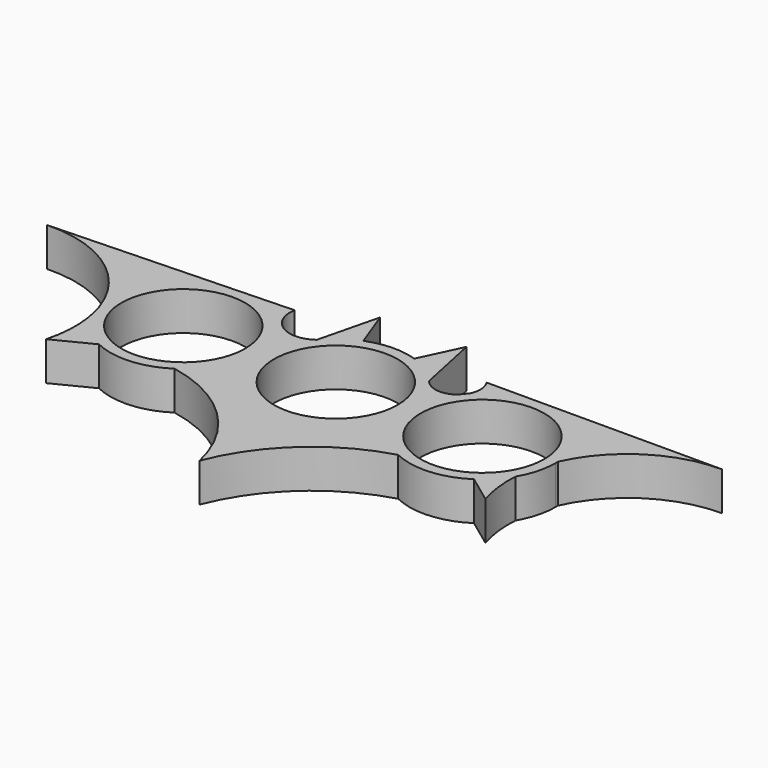
from build123d import *

# Parameters (mm, degrees)
F0_R     = 11.2
F1_DEPTH = 7


with BuildPart() as f1:
    # F0 (on Top) → F1 (new body)
    with BuildSketch(Plane.XY):
        with BuildLine():
            ThreePointArc((10.3281411328, 8.2200669548), (10.1972511679, 8.3717102549), (10.074000709, 8.5296254147))
            ThreePointArc((10.074000709, 8.5296254147), (7.4035330811, 10.9282980338), (4.1855750451, 12.5188242875))
            ThreePointArc((4.1855750451, 12.5188242875), (-0.3452490992, 13.1954841919), (-4.8344899154, 12.2828216326))
            ThreePointArc((-4.8344899154, 12.2828216326), (-7.7506695625, 10.6849015593), (-10.1749836281, 8.4089064788))
            ThreePointArc((-10.1749836281, 8.4089064788), (-4.468233214, -12.4207444199), (13.2, 0))
            ThreePointArc((13.2, 0), (12.4613695666, 4.3536500231), (10.3281411328, 8.2200669548))
        make_face()
        Circle(F0_R, mode=Mode.SUBTRACT)
        with BuildLine():
            ThreePointArc((10.3281411328, 8.2200669548), (10.2022450736, 8.3758101374), (10.074000709, 8.5296254147))
            ThreePointArc((10.074000709, 8.5296254147), (10.1972511679, 8.3717102549), (10.3281411328, 8.2200669548))
        make_face()
        with BuildLine():
            ThreePointArc((4.1855750451, 12.5188242875), (7.4035330811, 10.9282980338), (10.074000709, 8.5296254147))
            Line((10.074000709, 8.5296254147), (7.6865181327, 19.9412759393))
            Line((7.6865181327, 19.9412759393), (4.1855750451, 12.5188242875))
        make_face()
        with BuildLine():
            ThreePointArc((15.8676719554, 7.7748145738), (13.0097806042, 6.901037059), (10.3281411328, 8.2200669548))
            ThreePointArc((10.3281411328, 8.2200669548), (12.4613695666, 4.3536500231), (13.2, 0))
            ThreePointArc((13.2, 0), (-4.468233214, -12.4207444199), (-10.1749836281, 8.4089064788))
            ThreePointArc((-10.1749836281, 8.4089064788), (-15.9654138837, 8.2058267338), (-18.2521417737, 13.5294720531))
            Line((-18.2521417737, 13.5294720531), (-28.0488785159, 13.1921837517))
            ThreePointArc((-28.0488785159, 13.1921837517), (-18.4228655221, 9.4930316), (-14.3946892798, 0))
            ThreePointArc((-14.3946892798, 0), (-15.9784644263, -6.2692360104), (-20.3497377879, -11.034068963))
            ThreePointArc((-20.3497377879, -11.034068963), (-7.2156496997, -17.8748402529), (0, -30.8067705482))
            ThreePointArc((0, -30.8067705482), (8.1731824308, -18.8997973628), (20.7994515503, -11.8887881909))
            ThreePointArc((20.7994515503, -11.8887881909), (13.7315728101, -3.2112002777), (15.8676719554, 7.7748145738))
        make_face()
        with BuildLine():
            ThreePointArc((-10.1749836281, 8.4089064788), (-7.7506695625, 10.6849015593), (-4.8344899154, 12.2828216326))
            Line((-4.8344899154, 12.2828216326), (-7.4686547741, 19.3583834916))
            Line((-7.4686547741, 19.3583834916), (-10.1749836281, 8.4089064788))
        make_face()
        with BuildLine():
            ThreePointArc((16.9216233027, 9.0455875637), (16.4599264938, 8.356060205), (15.8676719554, 7.7748145738))
            ThreePointArc((15.8676719554, 7.7748145738), (13.7315728101, -3.2112002777), (20.7994515503, -11.8887881909))
            ThreePointArc((20.7994515503, -11.8887881909), (22.7350911295, -11.4067904706), (24.6973457089, -11.0482108434))
            ThreePointArc((24.6973457089, -11.0482108434), (19.2942274575, 8.5446451852), (37.735017377, 0))
            ThreePointArc((37.735017377, 0), (35.5470001475, -6.6501253029), (29.8378447798, -10.7019311877))
            ThreePointArc((29.8378447798, -10.7019311877), (31.8304630475, -10.7940985486), (33.8132592946, -11.0121385111))
            ThreePointArc((33.8132592946, -11.0121385111), (36.1041313286, -9.0924176202), (37.9043873019, -6.7065212675))
            ThreePointArc((37.9043873019, -6.7065212675), (38.4946332583, -2.9960688252), (39.7233684855, 0.5544321757))
            ThreePointArc((39.7233684855, 0.5544321757), (35.6651689499, 9.5331176566), (26.5196883397, 13.1999910993))
            ThreePointArc((26.5196883397, 13.1999910993), (21.2916554427, 12.1139240392), (16.9216233027, 9.0455875637))
        make_face()
        with BuildLine():
            ThreePointArc((16.9216233027, 9.0455875637), (16.3747607551, 8.4266948075), (15.8676719554, 7.7748145738))
            ThreePointArc((15.8676719554, 7.7748145738), (16.4599264938, 8.356060205), (16.9216233027, 9.0455875637))
        make_face()
        with BuildLine():
            ThreePointArc((16.7203744661, 13.1886111726), (17.3900464241, 11.1447410536), (16.9216233027, 9.0455875637))
            ThreePointArc((16.9216233027, 9.0455875637), (21.2916554427, 12.1139240392), (26.5196883397, 13.1999910993))
            Line((26.5196883397, 13.1999910993), (16.7203744661, 13.1886111726))
        make_face()
        with BuildLine():
            ThreePointArc((24.6973457089, -11.0482108434), (22.7350911295, -11.4067904706), (20.7994515503, -11.8887881909))
            ThreePointArc((20.7994515503, -11.8887881909), (27.4221988949, -13.1701521994), (33.8132592946, -11.0121385111))
            ThreePointArc((33.8132592946, -11.0121385111), (31.8304630475, -10.7940985486), (29.8378447798, -10.7019311877))
            ThreePointArc((29.8378447798, -10.7019311877), (27.2877774528, -11.1746745934), (24.6973457089, -11.0482108434))
        make_face()
        with BuildLine():
            Line((59.2723935843, 13.2380267605), (26.5196883397, 13.1999910993))
            ThreePointArc((26.5196883397, 13.1999910993), (35.6651689499, 9.5331176566), (39.7233684855, 0.5544321757))
            ThreePointArc((39.7233684855, 0.5544321757), (47.6248104741, 9.7831637012), (59.2723935843, 13.2380267605))
        make_face()
        with BuildLine():
            ThreePointArc((37.9043873019, -6.7065212675), (36.1041313286, -9.0924176202), (33.8132592946, -11.0121385111))
            Line((33.8132592946, -11.0121385111), (38.8711988926, -14.7407511249))
            ThreePointArc((38.8711988926, -14.7407511249), (38.0054073492, -10.769651182), (37.9043873019, -6.7065212675))
        make_face()
        with BuildLine():
            ThreePointArc((-14.3946892798, 0), (-18.4228655221, 9.4930316), (-28.0488785159, 13.1921837517))
            ThreePointArc((-28.0488785159, 13.1921837517), (-38.1058502056, 7.9847038763), (-40.4254078025, -3.1004293559))
            ThreePointArc((-40.4254078025, -3.1004293559), (-40.2568023788, -3.6563255049), (-40.103121039, -4.2165311485))
            ThreePointArc((-40.103121039, -4.2165311485), (-37.4932231177, -8.7326415168), (-33.3377120847, -11.8851878009))
            ThreePointArc((-33.3377120847, -11.8851878009), (-31.5807696858, -11.3708961265), (-29.791803972, -10.9823807542))
            ThreePointArc((-29.791803972, -10.9823807542), (-34.6951229091, 8.6616304629), (-16.3946892798, 0))
            ThreePointArc((-16.3946892798, 0), (-18.4872924031, -6.5188436191), (-23.9831396603, -10.6017314315))
            ThreePointArc((-23.9831396603, -10.6017314315), (-22.1587710386, -10.7534603081), (-20.3497377879, -11.034068963))
            ThreePointArc((-20.3497377879, -11.034068963), (-15.9784644263, -6.2692360104), (-14.3946892798, 0))
        make_face()
        with BuildLine():
            ThreePointArc((-40.4254078025, -3.1004293559), (-38.1058502056, 7.9847038763), (-28.0488785159, 13.1921837517))
            Line((-28.0488785159, 13.1921837517), (-61.8749952175, 12.02759663))
            ThreePointArc((-61.8749952175, 12.02759663), (-48.6070915858, 8.069385126), (-40.4254078025, -3.1004293559))
        make_face()
        with BuildLine():
            ThreePointArc((39.735017377, 0), (39.7321048328, 0.2772772683), (39.7233684855, 0.5544321757))
            ThreePointArc((39.7233684855, 0.5544321757), (38.4946332583, -2.9960688252), (37.9043873019, -6.7065212675))
            ThreePointArc((37.9043873019, -6.7065212675), (39.2691385286, -3.4759399442), (39.735017377, 0))
        make_face()
        with BuildLine():
            ThreePointArc((-33.3377120847, -11.8851878009), (-26.7315274964, -13.1717482414), (-20.3497377879, -11.034068963))
            ThreePointArc((-20.3497377879, -11.034068963), (-22.1587710386, -10.7534603081), (-23.9831396603, -10.6017314315))
            ThreePointArc((-23.9831396603, -10.6017314315), (-26.8623095848, -11.1760288109), (-29.791803972, -10.9823807542))
            ThreePointArc((-29.791803972, -10.9823807542), (-31.5807696858, -11.3708961265), (-33.3377120847, -11.8851878009))
        make_face()
        with BuildLine():
            ThreePointArc((-40.103121039, -4.2165311485), (-40.2568023788, -3.6563255049), (-40.4254078025, -3.1004293559))
            ThreePointArc((-40.4254078025, -3.1004293559), (-40.2765485699, -3.6620274365), (-40.103121039, -4.2165311485))
        make_face()
        with BuildLine():
            Line((-40.1510037482, -15.3303835541), (-33.3377120847, -11.8851878009))
            ThreePointArc((-33.3377120847, -11.8851878009), (-37.4932231177, -8.7326415168), (-40.103121039, -4.2165311485))
            ThreePointArc((-40.103121039, -4.2165311485), (-39.4042920046, -9.7765713214), (-40.1510037482, -15.3303835541))
        make_face()
    extrude(amount=F1_DEPTH)


solid = f1.part
